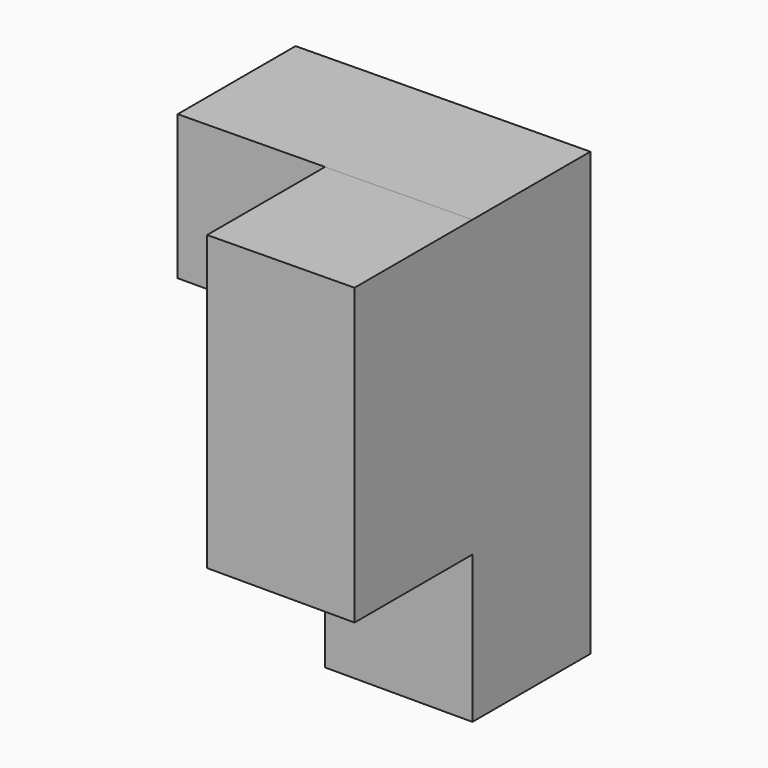
from build123d import *

# Parameters (mm, degrees)
F1_DEPTH = 20
F3_DEPTH = 20


with BuildPart() as f1:
    # F0 (on Front) → F1 (new body)
    with BuildSketch(Plane.XZ):
        Polygon((22.248365, 24.62787), (-17.749674, 24.23185), (-17.749674, 4.62787), (2.250326, 4.62787), (2.250326, -35.37213), (22.248365, -35.37213), align=None)
    extrude(amount=F1_DEPTH)

    # F2 (on face) → F3 (join)
    with BuildSketch(Plane.XZ.offset(20)):
        Polygon((22.248365, 24.62787), (2.250326, 24.42987), (2.250326, 4.62787), (2.250326, -15.37213), (22.248365, -15.37213), align=None)
    extrude(amount=F3_DEPTH)


solid = f1.part
